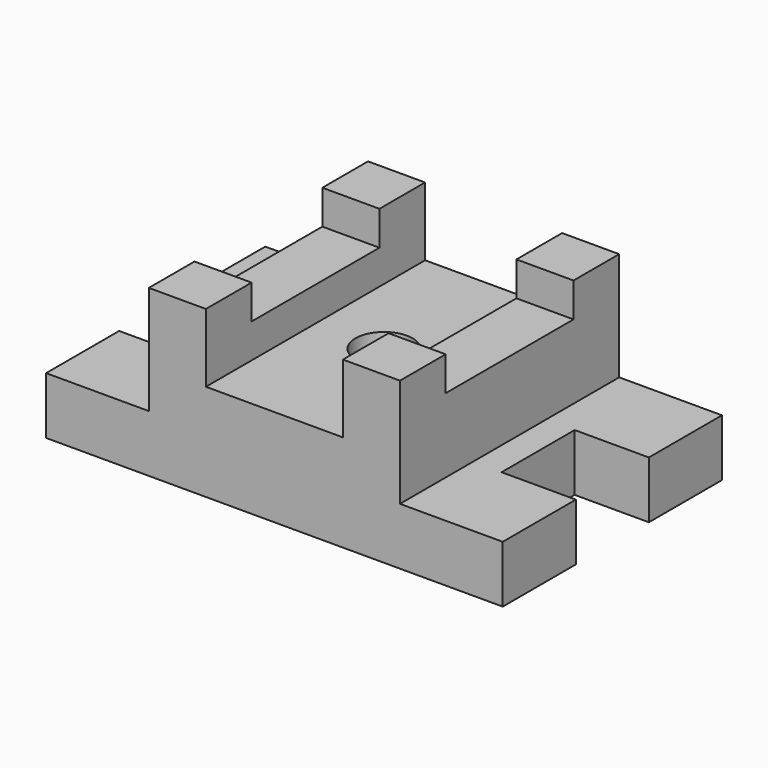
from build123d import *

# Parameters (mm, degrees)
F1_DEPTH = 31.75
F0_W     = 31.75
F0_H     = 31.75
F2_DEPTH = 92.075
F3_DEPTH = 73.025
F4_DEPTH = 92.075
F0_R     = 15.875
F6_DEPTH = 53.975


with BuildPart() as f1:
    # F0 (on Top) → F1 (new body)
    with BuildSketch(Plane.XY):
        Polygon((69.85, -44.45), (69.85, -76.2), (127, -76.2), (127, -25.4), (85.725, -25.4), (85.725, -0.009238), (85.725, 0.009238), (85.725, 25.4), (127, 25.4), (127, 76.2), (69.85, 76.2), (69.85, 44.45), (69.85, 0.009238), (69.85, -0.009238), align=None)
    extrude(amount=F1_DEPTH)

    # F0 (on Top) → F2 (join)
    with BuildSketch(Plane.XY):
        with Locations((53.975, -60.325)):
            Rectangle(F0_W, F0_H)
    extrude(amount=F2_DEPTH)

    # F0 (on Top) → F3 (join)
    with BuildSketch(Plane.XY):
        Polygon((38.1, -0.009238), (38.1, -44.45), (69.85, -44.45), (69.85, -0.009238), (69.85, 0.009238), (69.85, 44.45), (38.1, 44.45), (38.1, 0.009238), align=None)
    extrude(amount=F3_DEPTH)

    # F0 (on Top) → F4 (join)
    with BuildSketch(Plane.XY):
        with Locations((53.975, 60.325)):
            Rectangle(F0_W, F0_H)
    extrude(amount=F4_DEPTH)



with BuildPart() as f5_1:
    # F5: instance of F1
    add(f1.part.mirror(Plane.YZ))


with BuildPart() as f1_1:
    add(f1.part)

    add(f5_1.part)  # F6 merges F5_1
    # F0 (on Top) → F6 (join)
    with BuildSketch(Plane.XY):
        Polygon((-38.1, -76.2), (0, -76.2), (38.1, -76.2), (38.1, -44.45), (38.1, -0.009238), (38.1, 0.009238), (38.1, 44.45), (38.1, 76.2), (0, 76.2), (-38.1, 76.2), (-38.1, 44.45), (-38.1, 0.009238), (-38.1, -0.009238), (-38.1, -44.45), align=None)
        Circle(F0_R, mode=Mode.SUBTRACT)
    extrude(amount=F6_DEPTH)


solid = f1_1.part
